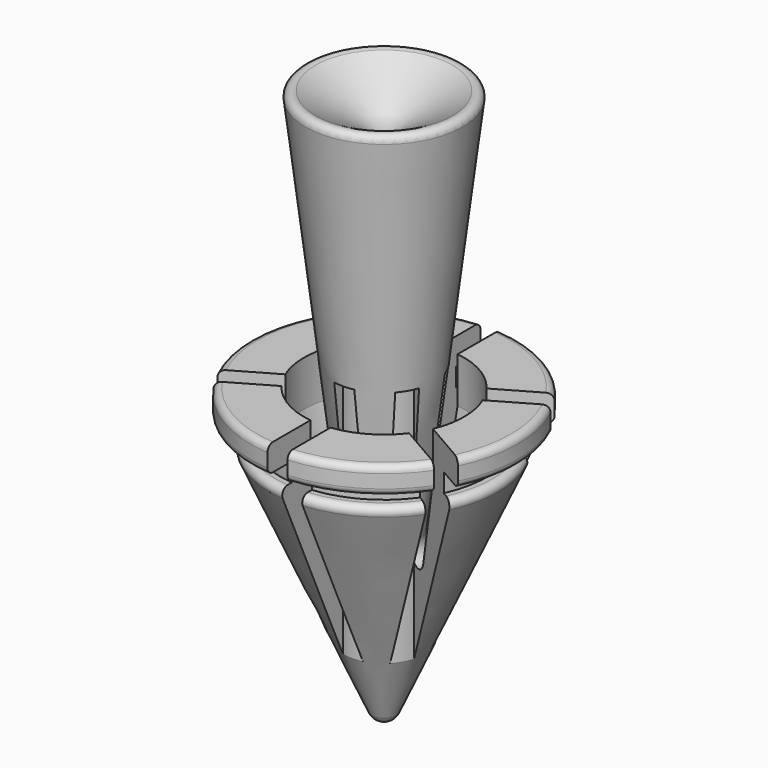
from build123d import *

# Parameters (mm, degrees)
F2_R          = 0.5
F4_DEPTH      = 25
F4_DEPTH_BACK = 25


with BuildPart() as f1:
    # F0 (on Front) → F1 (revolve)
    with BuildSketch(Plane.XZ):
        with BuildLine():
            ThreePointArc((-0.9137150082, 2.0545430918), (-0.5448139075, 1.6223417257), (0, 1.4608987042))
            Line((0, 1.4608987042), (0, 40))
            Line((0, 40), (-6, 43.4641016151))
            Line((-6, 43.4641016151), (-2.5, 14.1248302511))
            ThreePointArc((-2.5, 14.1248302511), (-3.3137498003, 13.0225652112), (-4.4639079632, 13.7670873102))
            Line((-4.4639079632, 13.7670873102), (-6, 20))
            Line((-6, 20), (-6, 23.4))
            Line((-6, 23.4), (-10, 23.4))
            Line((-10, 23.4), (-10, 21.4))
            Line((-10, 21.4), (-7.73, 21.4))
            Line((-7.73, 21.4), (-7.73, 20))
            Line((-7.73, 20), (-8.125, 20))
            ThreePointArc((-8.125, 20), (-8.5442784893, 19.7724069537), (-8.5818575041, 19.2968221938))
            Line((-8.5818575041, 19.2968221938), (-0.9137150082, 2.0545430918))
        make_face()
    revolve(axis=Axis((0, 0, 20.7304493521), (0, 0, 1)))

    # F2
    f2_edges = [f1.edges().sort_by_distance(p)[0] for p in [
        (10, 0, 23.4),
        (10, 0, 21.4),
        (6, 0, 43.464102),
    ]]
    fillet(f2_edges, radius=F2_R)

    # F3 (on Top) → F4 (cut, two sides)
    with BuildSketch(Plane.XY) as f4_sk:
        with BuildLine():
            Line((0.75, 2.9047375097), (0.75, 10.8329886939))
            Line((0.75, 10.8329886939), (-0.75, 10.8329886939))
            Line((-0.75, 10.8329886939), (-0.75, 2.9047375097))
            ThreePointArc((-0.75, 2.9047375097), (0, 3), (0.75, 2.9047375097))
        make_face()
        with BuildLine():
            ThreePointArc((-2.8905764747, 0.802849702), (-2.5980762114, 1.5), (-2.1405764747, 2.1018878077))
            Line((-2.1405764747, 2.1018878077), (-9.0066434079, 6.0660133998))
            Line((-9.0066434079, 6.0660133998), (-9.7566434079, 4.7669752941))
            Line((-9.7566434079, 4.7669752941), (-2.8905764747, 0.802849702))
        make_face()
        with BuildLine():
            ThreePointArc((-2.1405764747, -2.1018878077), (-2.5980762114, -1.5), (-2.8905764747, -0.802849702))
            Line((-2.8905764747, -0.802849702), (-9.7566434079, -4.7669752941))
            Line((-9.7566434079, -4.7669752941), (-9.0066434079, -6.0660133998))
            Line((-9.0066434079, -6.0660133998), (-2.1405764747, -2.1018878077))
        make_face()
        with BuildLine():
            Line((0.75, -10.8329886939), (0.75, -2.9047375097))
            ThreePointArc((0.75, -2.9047375097), (0, -3), (-0.75, -2.9047375097))
            Line((-0.75, -2.9047375097), (-0.75, -10.8329886939))
            Line((-0.75, -10.8329886939), (0.75, -10.8329886939))
        make_face()
        with BuildLine():
            Line((9.7566434079, -4.7669752941), (2.8905764747, -0.802849702))
            ThreePointArc((2.8905764747, -0.802849702), (2.5980762114, -1.5), (2.1405764747, -2.1018878077))
            Line((2.1405764747, -2.1018878077), (9.0066434079, -6.0660133998))
            Line((9.0066434079, -6.0660133998), (9.7566434079, -4.7669752941))
        make_face()
        with BuildLine():
            Line((9.0066434079, 6.0660133998), (2.1405764747, 2.1018878077))
            ThreePointArc((2.1405764747, 2.1018878077), (2.5980762114, 1.5), (2.8905764747, 0.802849702))
            Line((2.8905764747, 0.802849702), (9.7566434079, 4.7669752941))
            Line((9.7566434079, 4.7669752941), (9.0066434079, 6.0660133998))
        make_face()
    extrude(amount=-F4_DEPTH, mode=Mode.SUBTRACT)
    extrude(f4_sk.sketch, amount=F4_DEPTH_BACK, mode=Mode.SUBTRACT)


solid = f1.part
